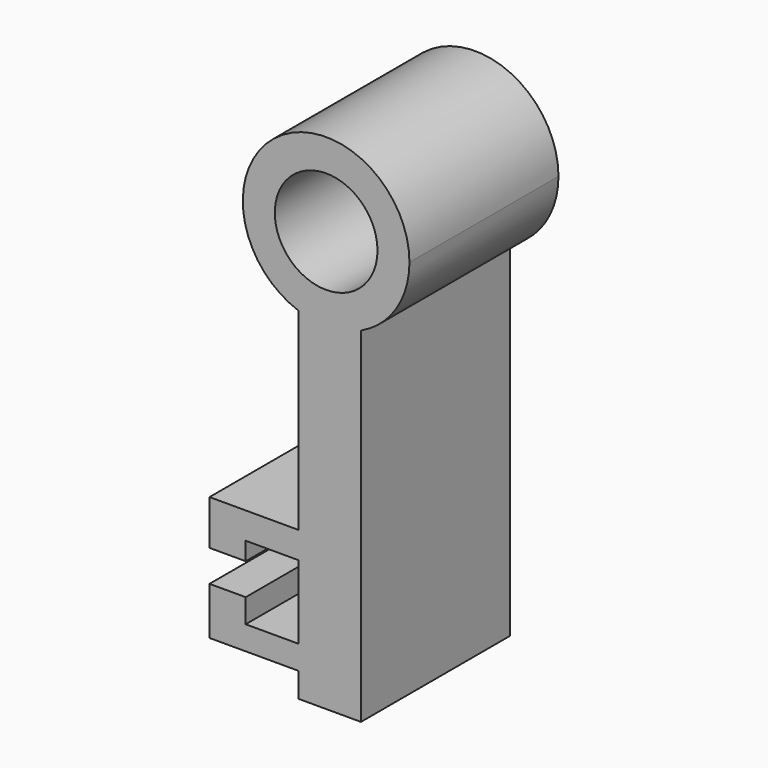
from build123d import *

# Parameters (mm, degrees)
F0_R     = 7.002159
F1_DEPTH = 25.4


with BuildPart() as f1:
    # F0 (on Front) → F1 (new body)
    with BuildSketch(Plane.XZ):
        with BuildLine():
            ThreePointArc((4.748446, 26.716104), (9.565493, 30.908048), (11.360195, 37.036292))
            ThreePointArc((11.360195, 37.036292), (-6.561535, 46.309926), (-3.78044, 26.323575))
            ThreePointArc((-3.78044, 26.323575), (0.522282, 25.688109), (4.748446, 26.716104))
        make_face()
        with Locations((0, 37.036292)):
            Circle(F0_R, mode=Mode.SUBTRACT)
        with BuildLine():
            ThreePointArc((4.748446, 26.716104), (0.522282, 25.688109), (-3.78044, 26.323575))
            Line((-3.78044, 26.323575), (-3.78044, 0))
            Line((-3.78044, 0), (-3.78044, -3.634142))
            Line((-3.78044, -3.634142), (-3.78044, -13.665396))
            Line((-3.78044, -13.665396), (-3.78044, -16.9164))
            Line((-3.78044, -16.9164), (-3.78044, -20.276576))
            Line((-3.78044, -20.276576), (4.748446, -20.276576))
            Line((4.748446, -20.276576), (4.748446, 26.716104))
        make_face()
        Polygon((-3.78044, -3.634142), (-3.78044, 0), (-15.900498, 0), (-15.900498, -6.099688), (-10.969408, -6.099688), (-10.969408, -3.634142), align=None)
        Polygon((-3.78044, -16.9164), (-3.78044, -13.665396), (-10.969408, -13.665396), (-10.969408, -10.414393), (-15.900498, -10.414393), (-15.900498, -16.9164), align=None)
    extrude(amount=F1_DEPTH)


solid = f1.part
